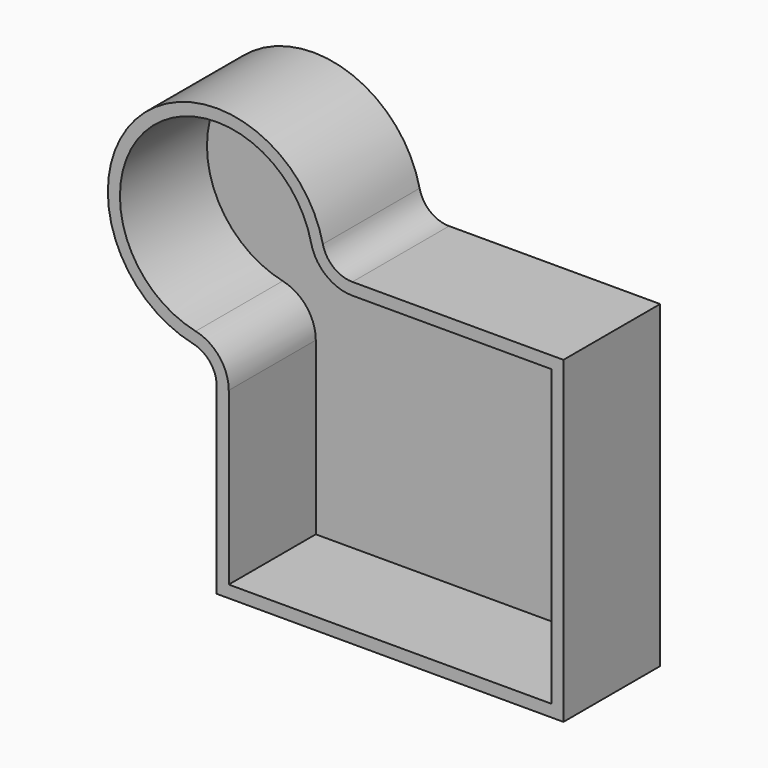
from build123d import *

# Parameters (mm, degrees)
F1_DEPTH = 25.4
F3_T     = -2.54


with BuildPart() as f1:
    # F0 (on Front) → F1 (new body)
    with BuildSketch(Plane.XZ):
        with BuildLine():
            Line((37.4195054173, 34.2399775982), (-6.9257142653, 34.2399775982))
            ThreePointArc((-6.9257142653, 34.2399775982), (-10.8979452514, 35.6357994632), (-13.123868564, 39.2096213798))
            ThreePointArc((-13.123868564, 39.2096213798), (-51.6044833887, 50.4056141901), (-40.4084905783, 11.9249993654))
            ThreePointArc((-40.4084905783, 11.9249993654), (-36.8346686617, 9.6990760528), (-35.4388467968, 5.7268450668))
            Line((-35.4388467968, 5.7268450668), (-35.4388467968, -32.730832696))
            Line((-35.4388467968, -32.730832696), (37.4195054173, -32.730832696))
            Line((37.4195054173, -32.730832696), (37.4195054173, 34.2399775982))
        make_face()
    extrude(amount=F1_DEPTH)

    # F3
    f3_openings = [f1.faces().sort_by_distance(p)[0] for p in [
        (-7.03605, -25.4, 8.183097),
    ]]
    offset(amount=F3_T, openings=f3_openings)


solid = f1.part
